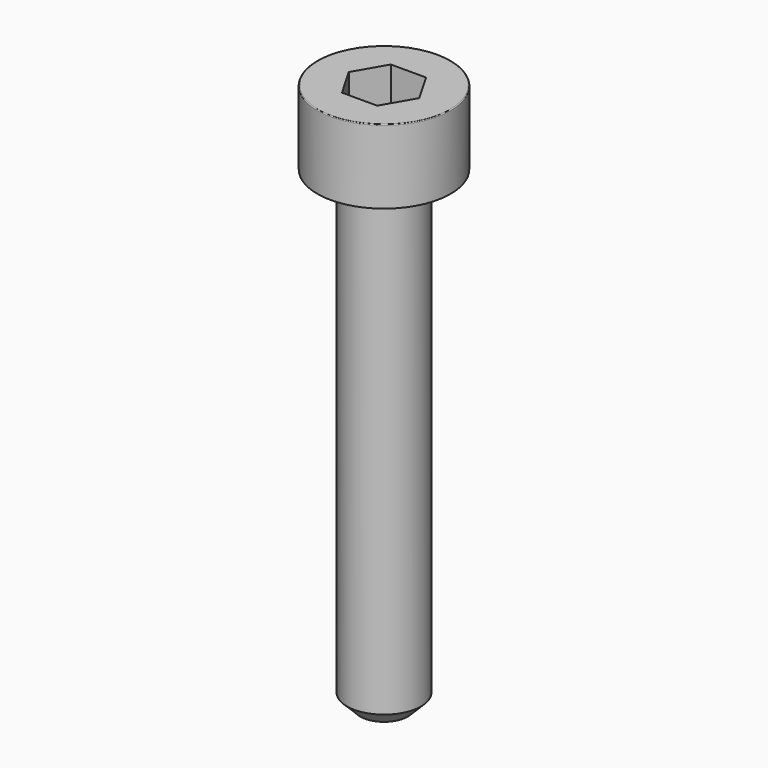
from build123d import *

# Parameters (mm, degrees)
POCKET_DEPTH = 2.06


with BuildPart() as part:
    # Sketch → Revolve (revolve)
    with BuildSketch(Plane.YZ):
        with BuildLine():
            Line((1.249, 0), (2.25, 0))
            Line((2.25, 0), (2.25, 2.47229))
            ThreePointArc((2.25, 2.47229), (2.241884, 2.491884), (2.22229, 2.5))
            Line((2.22229, 2.5), (0, 2.5))
            Line((0, -16), (0, 2.5))
            Line((0.8, -16), (0, -16))
            Line((1.25, -15.55), (0.8, -16))
            Line((1.25, -0.2), (1.25, -15.55))
            Line((1.249, 0), (1.25, -0.2))
        make_face()
    revolve(axis=Axis((0, 0, 0), (0, 0, 1)))

    # Sketch001 → Pocket (cut)
    with BuildSketch(Plane.XY.offset(2.5)):
        Polygon((1.189342, 0), (0.594671, 1.03), (-0.594671, 1.03), (-1.189342, 0), (-0.594671, -1.03), (0.594671, -1.03), align=None)
    extrude(amount=-POCKET_DEPTH, mode=Mode.SUBTRACT)


solid = part.part
